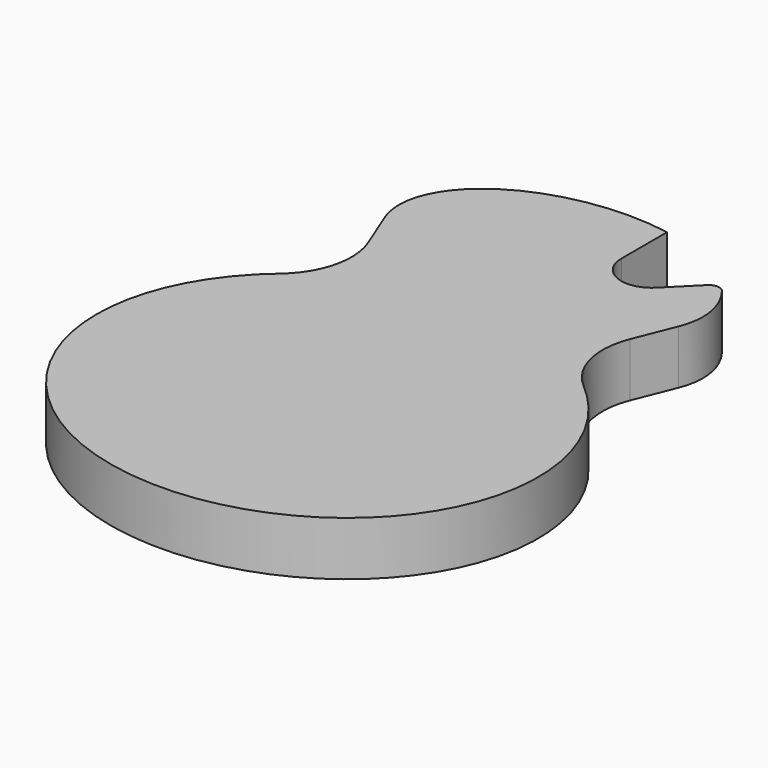
from build123d import *

# Parameters (mm, degrees)
F1_DEPTH = 40
F3_DEPTH = 40.0010001


with BuildPart() as f1:
    # F0 (on Top) → F1 (new body)
    with BuildSketch(Plane.XY):
        with BuildLine():
            Line((-112.66226952, 251.8166712858), (-111.9754360589, 252.3929929896))
            add(Edge.make_bspline(
                [(-111.9754360589, 252.3929929896), (-412.7656921999, 0), (0, 0)],
                knots=[2.3251429637, 2.3251429637, 2.3251429637, 4.7123889804, 4.7123889804, 4.7123889804], degree=2, weights=[1, 0.3682939518, 1]))
            add(Edge.make_bspline(
                [(0, 0), (412.7656921999, 0), (111.9754360589, 252.3929929896)],
                knots=[4.7123889804, 4.7123889804, 4.7123889804, 7.0996349971, 7.0996349971, 7.0996349971], degree=2, weights=[1, 0.3682939518, 1]))
            Line((111.9754360589, 252.3929929896), (112.66226952, 251.8166712858))
            ThreePointArc((112.66226952, 251.8166712858), (94.6746687559, 280.5421649016), (96.9426475533, 314.3587885784))
            Line((96.9426475533, 314.3587885784), (108.9452304972, 344.3939198079))
            add(Edge.make_bspline(
                [(108.9452304972, 344.3939198079), (145.1430722796, 434.975), (0, 434.975)],
                knots=[6.0311306592, 6.0311306592, 6.0311306592, 7.853981634, 7.853981634, 7.853981634], degree=2, weights=[1, 0.6126196987, 1]))
            add(Edge.make_bspline(
                [(0, 434.975), (-145.1430722796, 434.975), (-108.9452304972, 344.3939198079)],
                knots=[4.7123889804, 4.7123889804, 4.7123889804, 6.5352399551, 6.5352399551, 6.5352399551], degree=2, weights=[1, 0.6126196987, 1]))
            Line((-108.9452304972, 344.3939198079), (-96.9426475533, 314.3587885784))
            ThreePointArc((-96.9426475533, 314.3587885784), (-94.6746687559, 280.5421649016), (-112.66226952, 251.8166712858))
        make_face()
    extrude(amount=F1_DEPTH)

    # F2 (on face) → F3 (cut, through all)
    with BuildSketch(Plane.XY.offset(40)):
        with BuildLine():
            Line((69.951270473, 434.975), (30, 434.975))
            Line((30, 434.975), (30, 389.975))
            ThreePointArc((30, 389.975), (43.8896227718, 369.1877105185), (68.4099025767, 374.0650974233))
            Line((68.4099025767, 374.0650974233), (89.6354476377, 395.2906424843))
            ThreePointArc((89.6354476377, 395.2906424843), (95.4338918596, 397.4709793138), (100.894531022, 394.545702571))
            Line((100.894531022, 394.545702571), (69.951270473, 434.975))
        make_face()
    extrude(amount=-F3_DEPTH, mode=Mode.SUBTRACT)


solid = f1.part
